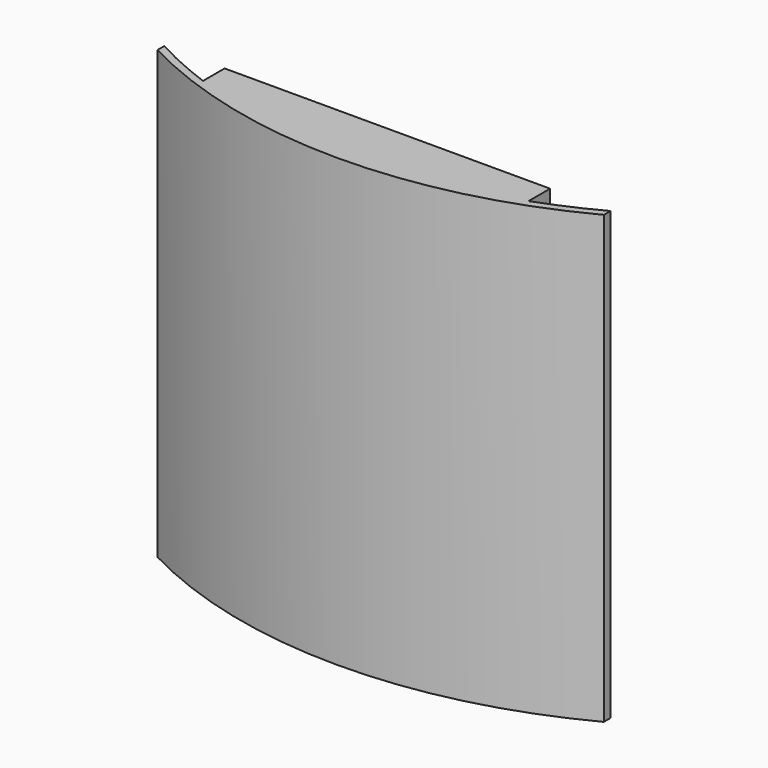
from build123d import *

# Parameters (mm, degrees)
F0_W     = 111.1192986223
F0_H     = 9.2245843104
F1_DEPTH = 152.4


with BuildPart() as f1:
    # F0 (on Top) → F1 (new body)
    with BuildSketch(Plane.XY):
        with BuildLine():
            ThreePointArc((-55.5596493111, -9.2245843104), (0, -19.0592669183), (55.5596493111, -9.2245843104))
            Line((55.5596493111, -9.2245843104), (-55.5596493111, -9.2245843104))
        make_face()
        with Locations((0, -4.6122921552)):
            Rectangle(F0_W, F0_H)
        with BuildLine():
            ThreePointArc((76.2, 0), (66.0410821805, -4.9731118685), (55.5596493111, -9.2245843104))
            ThreePointArc((55.5596493111, -9.2245843104), (0, -19.0592669183), (-55.5596493111, -9.2245843104))
            ThreePointArc((-55.5596493111, -9.2245843104), (-66.0410821805, -4.9731118685), (-76.2, 0))
            Line((-76.2, 0), (-76.2, -2.872712475))
            ThreePointArc((-76.2, -2.872712475), (0, -21.5992669183), (76.2, -2.872712475))
            Line((76.2, -2.872712475), (76.2, 0))
        make_face()
    extrude(amount=F1_DEPTH)


solid = f1.part
